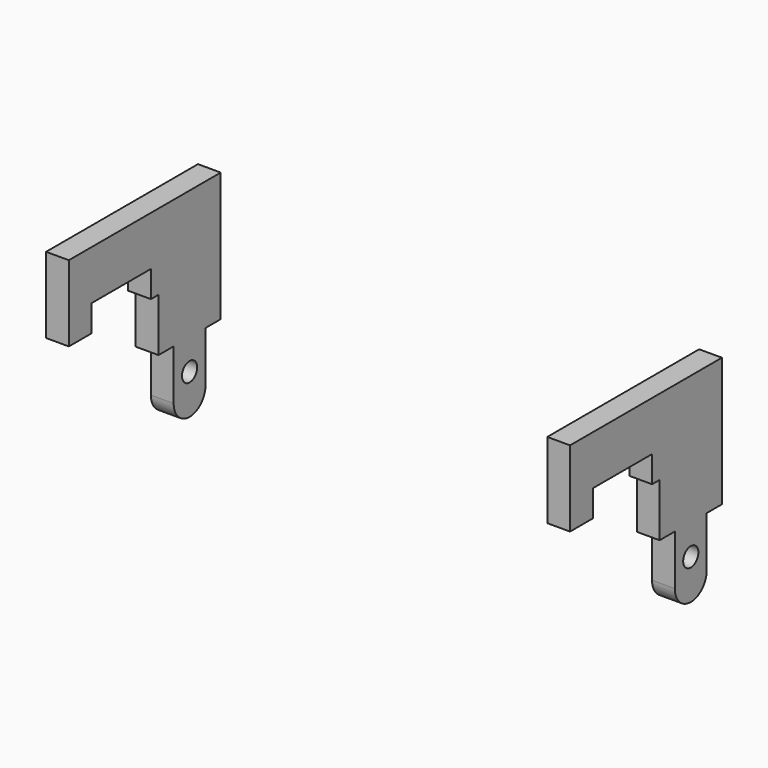
from build123d import *

# Parameters (mm, degrees)
PAD005_DEPTH         = 0.6
PAD005_DEPTH_BACK    = 0.6
SKETCH010_R          = 0.5
POCKET003_DEPTH      = 0.601
POCKET003_DEPTH_BACK = 0.601
ARRAY_X_COUNT        = 2
ARRAY_X_PITCH        = 26.4


with BuildPart() as array:
    # Sketch009 → Pad005 (new body, two sides)
    with BuildSketch(Plane.YZ) as pad005_sk:
        with BuildLine():
            Line((-1.05, -2.65), (-1.05, 0))
            Line((-1.05, 0), (-2.05, 0))
            Line((-2.05, 0), (-2.05, 6.8))
            Line((-2.05, 6.8), (7.95, 6.8))
            Line((7.95, 6.8), (7.95, 2.8))
            Line((6.45, 2.8), (7.95, 2.8))
            Line((6.45, 4.2), (6.45, 2.8))
            Line((6.45, 4.2), (2.55, 4.2))
            Line((2.55, 2.8), (2.55, 4.2))
            Line((2.05, 2.8), (2.55, 2.8))
            Line((2.05, 2.8), (2.05, 0))
            Line((2.05, 0), (1.05, 0))
            Line((1.05, 0), (1.05, -2.65))
            ThreePointArc((-1.05, -2.65), (0, -3.7), (1.05, -2.65))
        make_face()
    extrude(amount=PAD005_DEPTH)
    extrude(pad005_sk.sketch, amount=-PAD005_DEPTH_BACK)

    # Sketch010 → Pocket003 (cut, two sides)
    with BuildSketch(Plane.YZ) as pocket003_sk:
        with Locations((0, -1.6)):
            Circle(SKETCH010_R)
    extrude(amount=-POCKET003_DEPTH, mode=Mode.SUBTRACT)
    extrude(pocket003_sk.sketch, amount=POCKET003_DEPTH_BACK, mode=Mode.SUBTRACT)

    # Array X: Array ×2


with BuildPart() as array_1:
    add(array.part)
    with Locations(*[(i * ARRAY_X_PITCH, 0, 0) for i in range(1, ARRAY_X_COUNT)]):
        add(array.part)


with BuildPart() as array_2:
    # Array placement: moved
    add(array_1.part.moved(Location((-13.2, -11.45, 0))))


with BuildPart() as part_mirroring001:
    # Part__Mirroring001: instance of Array
    add(array_2.part.mirror(Plane(origin=(0, 0, 0), x_dir=(1, 0, 0), z_dir=(0, 1, 0))))


solid = part_mirroring001.part
